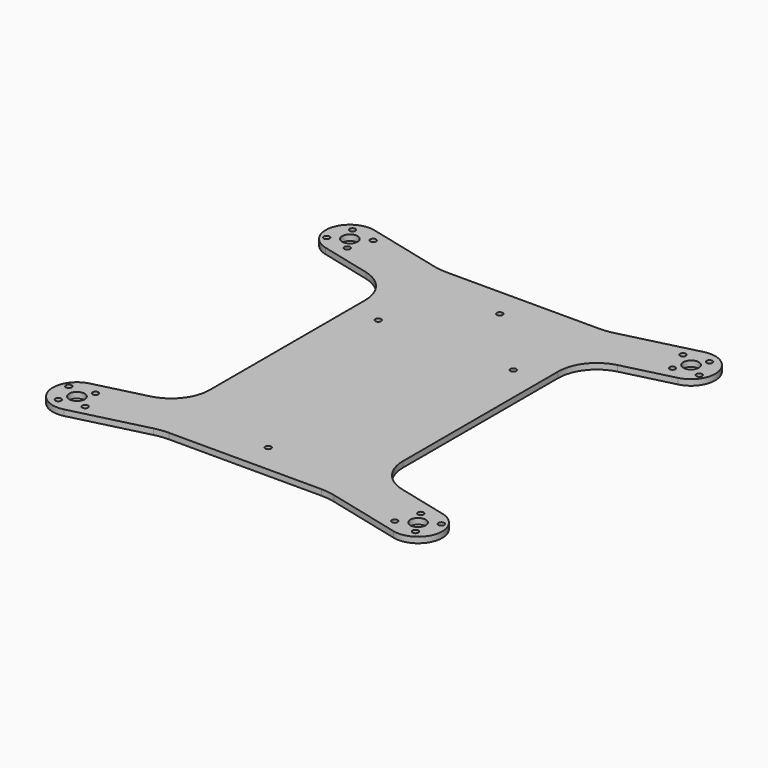
from build123d import *

# Parameters (mm, degrees)
F0_R     = 1.5
F0_R_2   = 4
F1_DEPTH = 3


with BuildPart() as f1:
    # F0 (on Top) → F1 (new body)
    with BuildSketch(Plane.XY):
        with BuildLine():
            Line((0, 90), (-39.499227, 90))
            ThreePointArc((-39.499227, 90), (-43.155307, 90.223615), (-46.756884, 90.891128))
            Line((-46.756884, 90.891128), (-85.364324, 100.517044))
            ThreePointArc((-85.364324, 100.517044), (-100.517044, 91.412371), (-91.412371, 76.259651))
            Line((-91.412371, 76.259651), (-65.161562, 69.714589))
            ThreePointArc((-65.161562, 69.714589), (-54.239785, 62.621904), (-50, 50.308675))
            Line((-50, 50.308675), (-50, 0))
            Line((-50, 0), (0, 0))
            Line((0, 0), (0, 73.5))
            ThreePointArc((0, 73.5), (-1.5, 75), (0, 76.5))
            Line((0, 76.5), (0, 90))
        make_face()
        with Locations((-35, 40)):
            Circle(F0_R, mode=Mode.SUBTRACT)
        with Locations((-96.531437, 83.495486)):
            Circle(F0_R, mode=Mode.SUBTRACT)
        with Locations((-84.268043, 81.531009)):
            Circle(F0_R, mode=Mode.SUBTRACT)
        with Locations((-88.388348, 88.388348)):
            Circle(F0_R_2, mode=Mode.SUBTRACT)
        with Locations((-92.508652, 95.245686)):
            Circle(F0_R, mode=Mode.SUBTRACT)
        with Locations((-80.245258, 93.281209)):
            Circle(F0_R, mode=Mode.SUBTRACT)
        with BuildLine():
            Line((39.499227, 90), (0, 90))
            Line((0, 90), (0, 76.5))
            ThreePointArc((0, 76.5), (1.06066, 76.06066), (1.5, 75))
            ThreePointArc((1.5, 75), (1.06066, 73.93934), (0, 73.5))
            Line((0, 73.5), (0, 0))
            Line((0, 0), (50, 0))
            Line((50, 0), (50, 50.308675))
            ThreePointArc((50, 50.308675), (54.239785, 62.621904), (65.161562, 69.714589))
            Line((65.161562, 69.714589), (91.412371, 76.259651))
            ThreePointArc((91.412371, 76.259651), (100.517044, 91.412371), (85.364324, 100.517044))
            Line((85.364324, 100.517044), (46.756884, 90.891128))
            ThreePointArc((46.756884, 90.891128), (43.155307, 90.223615), (39.499227, 90))
        make_face()
        with Locations((35, 40)):
            Circle(F0_R, mode=Mode.SUBTRACT)
        with Locations((84.268043, 81.531009)):
            Circle(F0_R, mode=Mode.SUBTRACT)
        with Locations((96.531437, 83.495486)):
            Circle(F0_R, mode=Mode.SUBTRACT)
        with Locations((80.245258, 93.281209)):
            Circle(F0_R, mode=Mode.SUBTRACT)
        with Locations((88.388348, 88.388348)):
            Circle(F0_R_2, mode=Mode.SUBTRACT)
        with Locations((92.508652, 95.245686)):
            Circle(F0_R, mode=Mode.SUBTRACT)
        with BuildLine():
            Line((0, -73.5), (0, 0))
            Line((0, 0), (-50, 0))
            Line((-50, 0), (-50, -50.308675))
            ThreePointArc((-50, -50.308675), (-54.239785, -62.621904), (-65.161562, -69.714589))
            Line((-65.161562, -69.714589), (-91.412371, -76.259651))
            ThreePointArc((-91.412371, -76.259651), (-100.517044, -91.412371), (-85.364324, -100.517044))
            Line((-85.364324, -100.517044), (-46.756884, -90.891128))
            ThreePointArc((-46.756884, -90.891128), (-43.155307, -90.223615), (-39.499227, -90))
            Line((-39.499227, -90), (0, -90))
            Line((0, -90), (0, -76.5))
            ThreePointArc((0, -76.5), (-1.5, -75), (0, -73.5))
        make_face()
        with Locations((-92.508652, -95.245686)):
            Circle(F0_R, mode=Mode.SUBTRACT)
        with Locations((-88.388348, -88.388348)):
            Circle(F0_R_2, mode=Mode.SUBTRACT)
        with Locations((-80.245258, -93.281209)):
            Circle(F0_R, mode=Mode.SUBTRACT)
        with Locations((-96.531437, -83.495486)):
            Circle(F0_R, mode=Mode.SUBTRACT)
        with Locations((-84.268043, -81.531009)):
            Circle(F0_R, mode=Mode.SUBTRACT)
        with BuildLine():
            Line((50, 0), (0, 0))
            Line((0, 0), (0, -73.5))
            ThreePointArc((0, -73.5), (1.06066, -73.93934), (1.5, -75))
            ThreePointArc((1.5, -75), (1.06066, -76.06066), (0, -76.5))
            Line((0, -76.5), (0, -90))
            Line((0, -90), (39.499227, -90))
            ThreePointArc((39.499227, -90), (43.155307, -90.223615), (46.756884, -90.891128))
            Line((46.756884, -90.891128), (85.364324, -100.517044))
            ThreePointArc((85.364324, -100.517044), (100.517044, -91.412371), (91.412371, -76.259651))
            Line((91.412371, -76.259651), (65.161562, -69.714589))
            ThreePointArc((65.161562, -69.714589), (54.239785, -62.621904), (50, -50.308675))
            Line((50, -50.308675), (50, 0))
        make_face()
        with Locations((80.245258, -93.281209)):
            Circle(F0_R, mode=Mode.SUBTRACT)
        with Locations((92.508652, -95.245686)):
            Circle(F0_R, mode=Mode.SUBTRACT)
        with Locations((88.388348, -88.388348)):
            Circle(F0_R_2, mode=Mode.SUBTRACT)
        with Locations((84.268043, -81.531009)):
            Circle(F0_R, mode=Mode.SUBTRACT)
        with Locations((96.531437, -83.495486)):
            Circle(F0_R, mode=Mode.SUBTRACT)
    extrude(amount=-F1_DEPTH)


solid = f1.part
